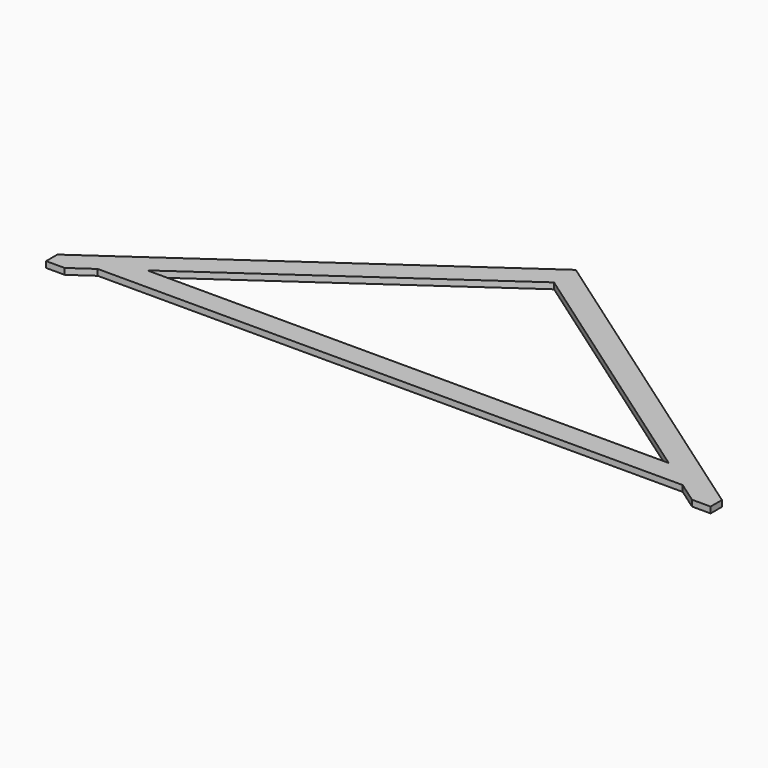
from build123d import *

# Parameters (mm, degrees)
F1_DEPTH = 38.1


with BuildPart() as f1:
    # F0 (on Top) → F1 (new body)
    with BuildSketch(Plane.XY):
        Polygon((-1635.637723, 139.7), (-1835.15, 0), (1835.15, 0), (1635.637723, 139.7), align=None)
        Polygon((-1967.950245, -92.987732), (-1835.15, 0), (-1635.637723, 139.7), (0, 1284.985864), (1635.637723, 139.7), (1835.15, 0), (1967.950245, -92.987732), (2084.547404, -92.987732), (2084.547404, -4.087732), (0, 1455.528074), (-2084.547404, -4.087732), (-2084.547404, -92.987732), align=None)
    extrude(amount=F1_DEPTH)


solid = f1.part
